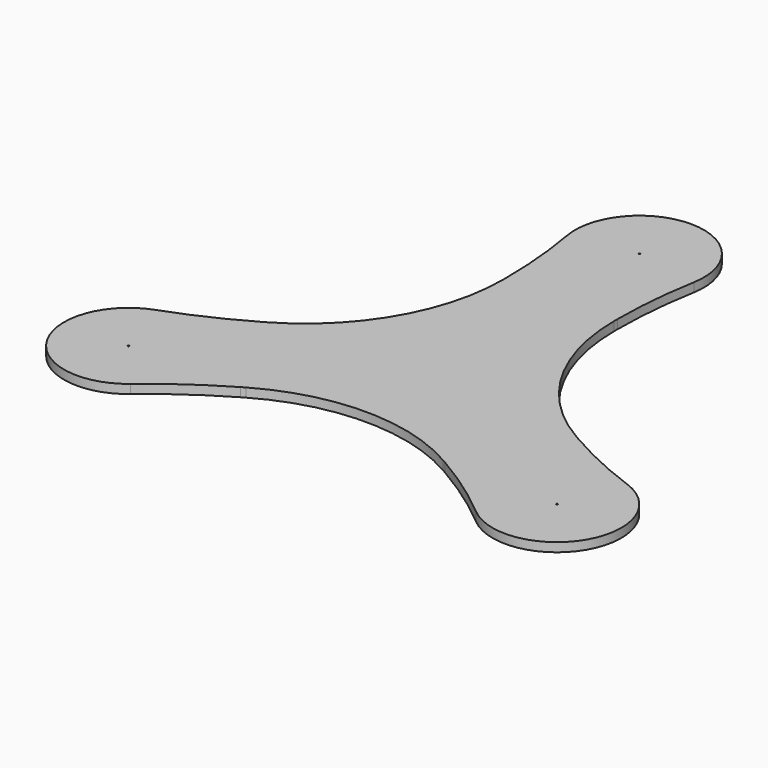
from build123d import *

# Parameters (mm, degrees)
F1_R     = 0.127
F2_DEPTH = 1.6
F3_R     = 87


with BuildPart() as f2:
    # F1 (on Top) → F2 (new body)
    with BuildSketch(Plane.XY):
        with BuildLine():
            Line((9.9592921435, 26.1), (9.9592921435, 38.446))
            ThreePointArc((9.9592921435, 38.446), (0, 55.696), (-9.9592921435, 38.446))
            Line((-9.9592921435, 38.446), (-9.9592921435, 26.1))
            ThreePointArc((-9.9592921435, 26.1), (-14.6815260775, 8.476383033), (-27.5829091105, -4.425))
            Line((-27.5829091105, -4.425), (-38.2748587457, -10.598))
            ThreePointArc((-38.2748587457, -10.598), (-48.2341508892, -27.848), (-28.3155666021, -27.848))
            Line((-28.3155666021, -27.848), (-17.623616967, -21.675))
            ThreePointArc((-17.623616967, -21.675), (0, -16.952766066), (17.623616967, -21.675))
            Line((17.623616967, -21.675), (28.3155666021, -27.848))
            ThreePointArc((28.3155666021, -27.848), (48.2341508892, -27.848), (38.2748587457, -10.598))
            Line((38.2748587457, -10.598), (27.5829091105, -4.425))
            ThreePointArc((27.5829091105, -4.425), (14.6815260775, 8.476383033), (9.9592921435, 26.1))
        make_face()
        with Locations((-38.2748587457, -22.098)):
            Circle(F1_R, mode=Mode.SUBTRACT)
        with Locations((38.2748587457, -22.098)):
            Circle(F1_R, mode=Mode.SUBTRACT)
        with Locations((0, 44.196)):
            Circle(F1_R, mode=Mode.SUBTRACT)
    extrude(amount=F2_DEPTH)

    # F3
    f3_edges = [f2.edges().sort_by_distance(p)[0] for p in [
        (-28.315567, -27.848, 0.8),
        (-38.274859, -10.598, 0.8),
        (28.315567, -27.848, 0.8),
        (38.274859, -10.598, 0.8),
        (9.959292, 38.446, 0.8),
        (-9.959292, 38.446, 0.8),
    ]]
    fillet(f3_edges, radius=F3_R)


solid = f2.part
